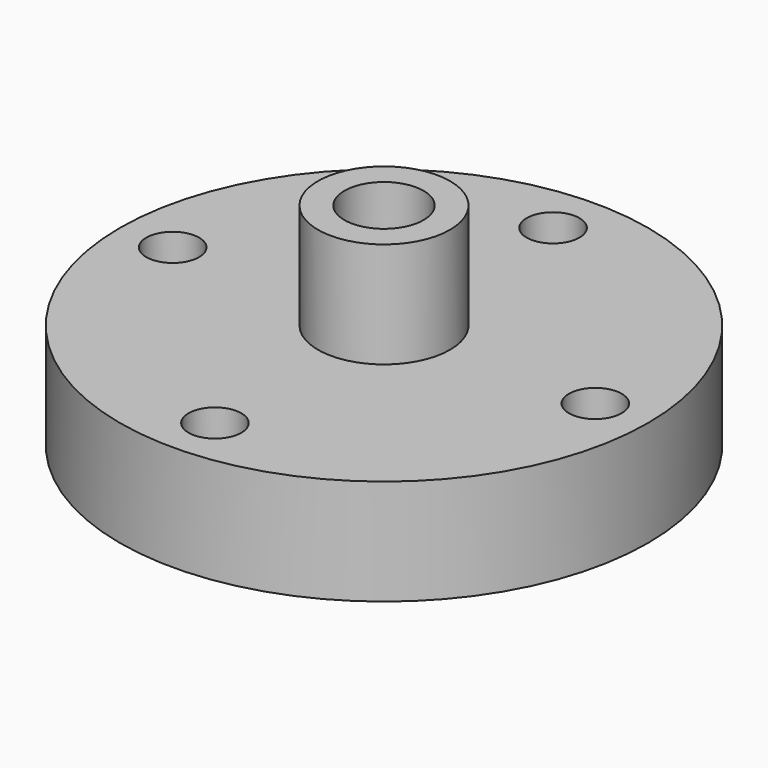
from build123d import *

# Parameters (mm, degrees)
F0_R      = 31.75
F1_DEPTH  = 12.7
F2_R      = 7.9375
F2_R_2    = 4.7625
F3_DEPTH  = 12.7
F3_FACE_R = 4.7625
F4_DEPTH  = 25.4
F5_R      = 3.175
F6_DEPTH  = 25.4


with BuildPart() as f1:
    # F0 (on Top) → F1 (new body)
    with BuildSketch(Plane.XY):
        Circle(F0_R)
    extrude(amount=-F1_DEPTH)

    # F2 (on face) → F3 (join)
    with BuildSketch(Plane.XY):
        Circle(F2_R)
        Circle(F2_R_2, mode=Mode.SUBTRACT)
    extrude(amount=F3_DEPTH)

    # F3_face (on face) → F4 (cut)
    with BuildSketch(Plane.XY):
        Circle(F3_FACE_R)
    extrude(amount=-F4_DEPTH, mode=Mode.SUBTRACT)

    # F5 (on face) → F6 (cut)
    with BuildSketch(Plane.XY):
        with Locations((-25.4, 0)):
            Circle(F5_R)
        with Locations((0, -25.4)):
            Circle(F5_R)
        with Locations((25.4, 0)):
            Circle(F5_R)
        with Locations((0, 25.4)):
            Circle(F5_R)
    extrude(amount=-F6_DEPTH, mode=Mode.SUBTRACT)


solid = f1.part
